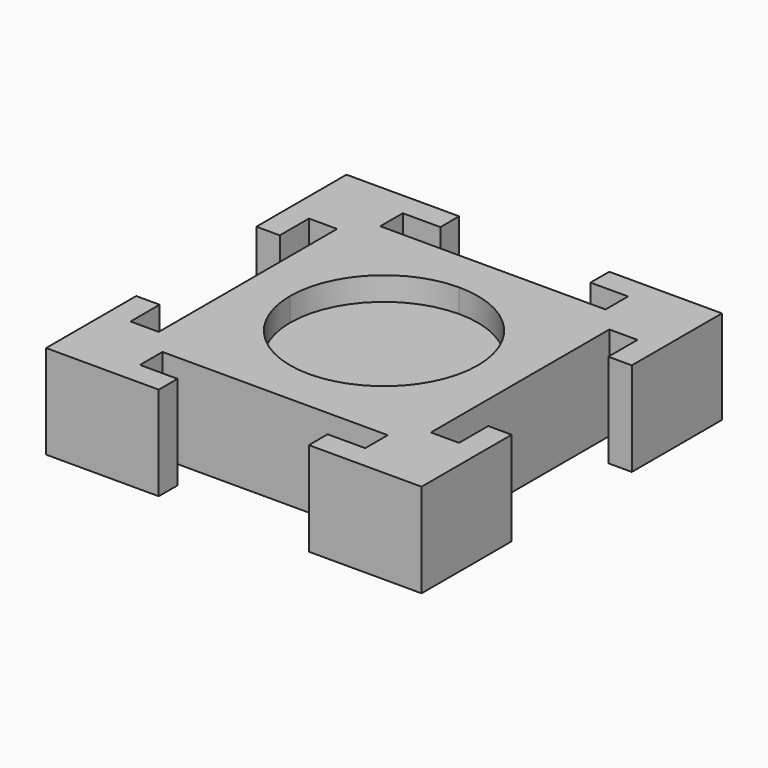
from build123d import *

# Parameters (mm, degrees)
F1_DEPTH = 10
F3_DEPTH = 2.5


with BuildPart() as f1:
    # F0 (on Top) → F1 (new body)
    with BuildSketch(Plane.XY):
        Polygon((-7.990857, 17.500017), (-8, 20), (-20, 20), (-20, 8), (-17.5, 8), (-17.5, 11.880315), (-14.5, 11.880315), (-14.5, 0), (0, 0), (0, 14.500017), (-12, 14.500017), (-12, 17.500017), align=None)
    extrude(amount=-F1_DEPTH)

    # F2 (on face) → F3 (cut)
    with BuildSketch(Plane.XY):
        with BuildLine():
            Line((0, 0), (0, 10))
            ThreePointArc((0, 10), (-7.071068, 7.071068), (-10, 0))
            Line((-10, 0), (0, 0))
        make_face()
    extrude(amount=-F3_DEPTH, mode=Mode.SUBTRACT)

    # F4: F1 across plane


with BuildPart() as f1_1:
    add(f1.part)
    add(f1.part.mirror(Plane.YZ))

    # F5: F1 across plane


with BuildPart() as f1_2:
    add(f1_1.part)
    add(f1_1.part.mirror(Plane.XZ))


solid = f1_2.part
